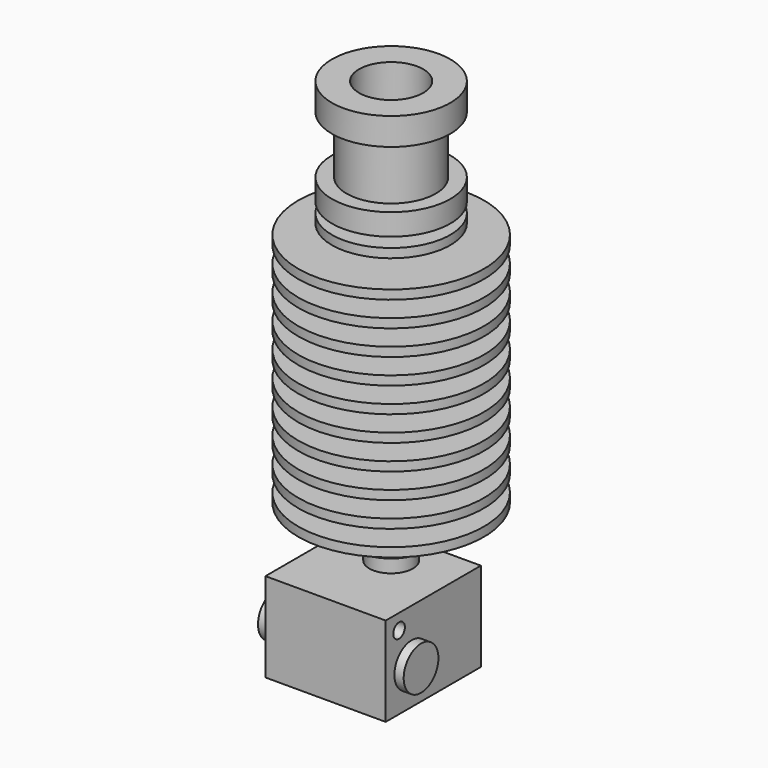
from build123d import *

# Parameters (mm, degrees)
F3_DEPTH   = 3.09
F7_DEPTH   = 12.02
F8_R       = 0.98
F9_DEPTH   = 20.601
F8_R_2     = 2.925
F10_DEPTH  = 2.17
F10_FACE_R = 2.925
F11_DEPTH  = 19.62
F12_R      = 1.385
F13_DEPTH  = 1.12
F15_DEPTH  = 4.13


with BuildPart() as f1:
    # F0 (on Front) → F1 (revolve)
    with BuildSketch(Plane.XZ):
        Polygon((0, -73.89), (0, -7.79), (-4.325, -7.79), (-4.325, 0), (-7.97, 0), (-7.97, -3.67), (-6, -3.67), (-6, -11.4), (-7.97, -11.4), (-7.97, -14.31), (-4.66, -14.31), (-4.66, -15.65), (-7.97, -15.65), (-7.97, -16.87), (-4.66, -16.87), (-4.66, -18.21), (-12.5, -18.21), (-12.5, -19.43), (-4.66, -19.43), (-4.66, -21.605556), (-12.5, -21.605556), (-12.5, -22.825556), (-4.66, -22.825556), (-4.66, -25.001111), (-12.5, -25.001111), (-12.5, -26.221111), (-4.66, -26.221111), (-4.66, -28.396667), (-12.5, -28.396667), (-12.5, -29.616667), (-4.66, -29.616667), (-4.66, -31.792222), (-12.5, -31.792222), (-12.5, -33.012222), (-4.66, -33.012222), (-4.66, -35.187778), (-12.5, -35.187778), (-12.5, -36.407778), (-6.52, -36.407778), (-6.52, -38.583333), (-12.5, -38.583333), (-12.5, -39.803333), (-6.52, -39.803333), (-6.52, -41.978889), (-12.5, -41.978889), (-12.5, -43.198889), (-6.52, -43.198889), (-6.52, -45.374444), (-12.5, -45.374444), (-12.5, -46.594444), (-6.52, -46.594444), (-6.52, -48.77), (-12.5, -48.77), (-12.5, -49.99), (-2.94, -49.99), (-2.94, -71.96), (-2.305, -71.96), (-0.3475, -73.89), align=None)
    revolve(axis=Axis((0, 0, -36.945), (0, 0, -1)))

    # F2 (on face) → F3 (join)
    with BuildSketch(Plane(origin=(0, 0, -71.96), x_dir=(1, 0, 0), z_dir=(0, 0, -1))):
        Polygon((-4.085, 2.358476), (-4.085, -2.358476), (0, -4.716952), (4.085, -2.358476), (4.085, 2.358476), (0, 4.716952), align=None)
    extrude(amount=-F3_DEPTH)

    # F4 (on Front) → F5 (revolve, cut)
    with BuildSketch(Plane.XZ):
        Polygon((-4.085, -72.96), (-4.085, -71.96), (-5.63, -70.415), (-4.085, -68.87), (-4.085, -67.87), (-7.085, -67.87), (-7.085, -72.96), align=None)
    revolve(axis=Axis((0, 0, -72.455682), (0, 0, -1)), mode=Mode.SUBTRACT)

    # F6 (on face) → F7 (join)
    with BuildSketch(Plane.XY.offset(-68.87)):
        Polygon((-8.1, -11.04), (0, -11.04), (8.1, -11.04), (8.1, 4.98), (0, 4.98), (-8.1, 4.98), align=None)
    extrude(amount=F7_DEPTH)

    # F8 (on face) → F9 (cut, through all)
    with BuildSketch(Plane(origin=(-8.1, 0, 0), x_dir=(0, -1, 0), z_dir=(-1, 0, 0))):
        with Locations((8.79, -58.94)):
            Circle(F8_R)
    extrude(amount=-F9_DEPTH, mode=Mode.SUBTRACT)

    # F8 (on face) → F10 (join)
    with BuildSketch(Plane(origin=(-8.1, 0, 0), x_dir=(0, -1, 0), z_dir=(-1, 0, 0))):
        with Locations((6.655, -63.875)):
            Circle(F8_R_2)
    extrude(amount=F10_DEPTH)

    # F10_face (on face) → F11 (join)
    with BuildSketch(Plane(origin=(-10.27, -6.655, -63.875), x_dir=(0, -1, 0), z_dir=(-1, 0, 0))):
        Circle(F10_FACE_R)
    extrude(amount=-F11_DEPTH)

    # F12 (on face) → F13 (join)
    with BuildSketch(Plane(origin=(0, 0, -68.87), x_dir=(1, 0, 0), z_dir=(0, 0, -1))):
        with Locations((0, 7.085)):
            Circle(F12_R)
    extrude(amount=F13_DEPTH)

    # F14 (on face) → F15 (join)
    with BuildSketch(Plane(origin=(0, 0, -49.99), x_dir=(1, 0, 0), z_dir=(0, 0, -1))):
        Polygon((2.777055, 4.81), (-2.777055, 4.81), (-5.55411, 0), (-2.777055, -4.81), (2.777055, -4.81), (5.55411, 0), align=None)
    extrude(amount=F15_DEPTH)

    # F16 (on Right) → F17 (revolve, cut)
    with BuildSketch(Plane.YZ):
        Polygon((6.875, -52.055), (4.81, -54.12), (8.81, -54.12), (8.81, -49.99), (4.81, -49.99), align=None)
    revolve(axis=Axis((0, 0, -29.465), (0, 0, -1)), mode=Mode.SUBTRACT)


solid = f1.part
